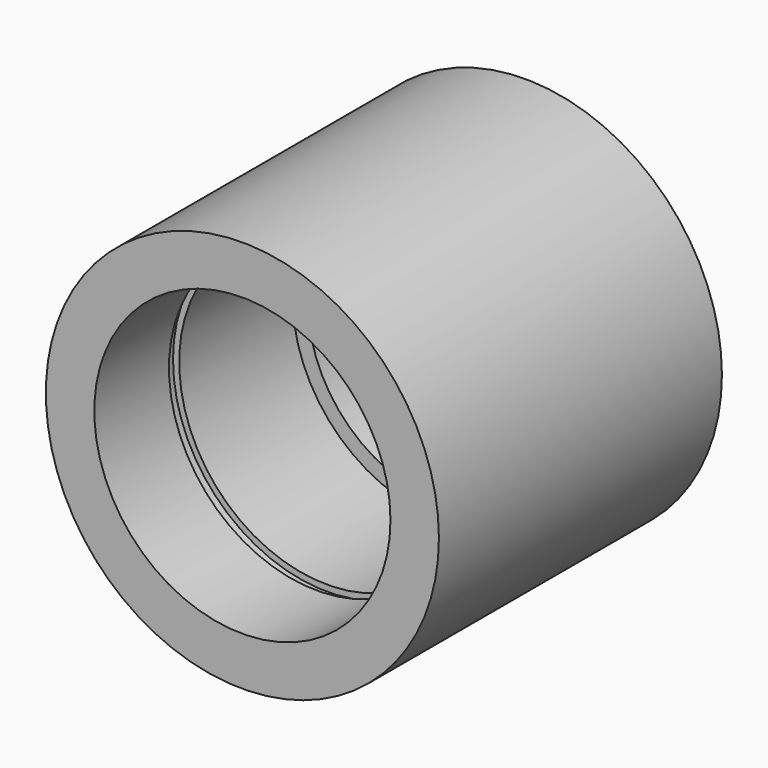
from build123d import *

# Parameters (mm, degrees)
F0_R     = 20
F0_R_2   = 15.07
F1_DEPTH = 10.8
F2_R     = 13.5
F3_DEPTH = 10.8
F4_R     = 20
F4_R_2   = 15.07
F5_DEPTH = 14.4
F6_R     = 20
F6_R_2   = 15.7
F7_DEPTH = 1.3
F8_R     = 20
F8_R_2   = 15.7
F8_R_3   = 15.07
F9_DEPTH = 9.5


with BuildPart() as f1:
    # F0 (on Front) → F1 (new body)
    with BuildSketch(Plane.XZ):
        Circle(F0_R)
        Circle(F0_R_2, mode=Mode.SUBTRACT)
        Circle(F0_R_2)
    extrude(amount=F1_DEPTH)

    # F2 (on face) → F3 (cut)
    with BuildSketch(Plane(origin=(0, 0, 0), x_dir=(-1, 0, 0), z_dir=(0, 1, 0))):
        Circle(F2_R)
    extrude(amount=-F3_DEPTH, mode=Mode.SUBTRACT)

    # F4 (on face) → F5 (join)
    with BuildSketch(Plane.XZ.offset(10.8)):
        Circle(F4_R)
        Circle(F4_R_2, mode=Mode.SUBTRACT)
    extrude(amount=F5_DEPTH)

    # F6 (on face) → F7 (join)
    with BuildSketch(Plane.XZ.offset(25.2)):
        Circle(F6_R)
        Circle(F6_R_2, mode=Mode.SUBTRACT)
    extrude(amount=F7_DEPTH)

    # F8 (on face) → F9 (join)
    with BuildSketch(Plane.XZ.offset(26.5)):
        Circle(F8_R)
        Circle(F8_R_2, mode=Mode.SUBTRACT)
        Circle(F8_R_2)
        Circle(F8_R_3, mode=Mode.SUBTRACT)
    extrude(amount=F9_DEPTH)


solid = f1.part
